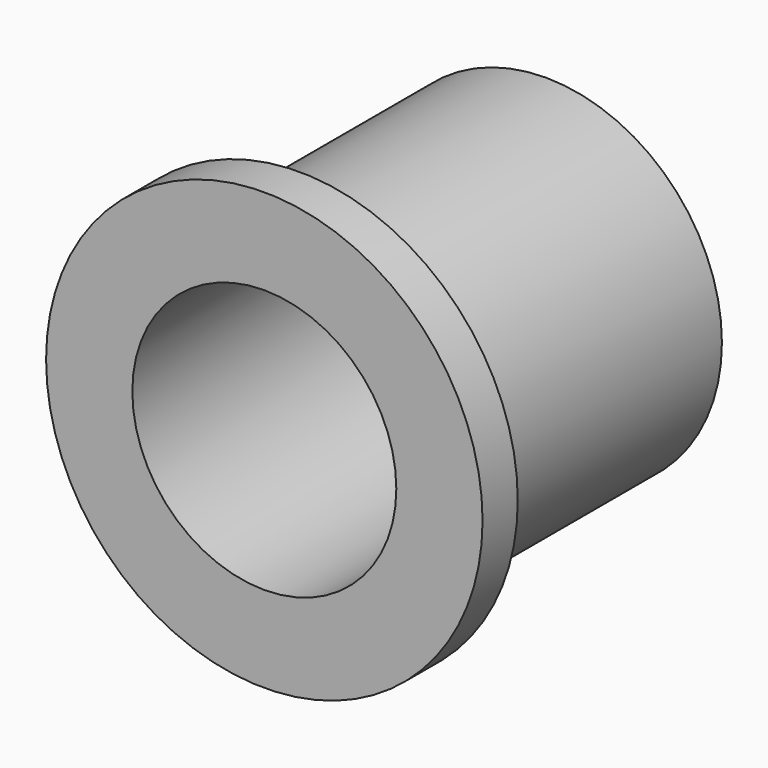
from build123d import *

# Parameters (mm, degrees)
F0_R     = 15.748
F0_R_2   = 12.7
F1_DEPTH = 3.175
F2_DEPTH = 25.4
F3_D     = 19.05


with BuildPart() as f1:
    # F0 (on Front) → F1 (new body)
    with BuildSketch(Plane.XZ):
        Circle(F0_R)
        Circle(F0_R_2, mode=Mode.SUBTRACT)
        Circle(F0_R_2)
    extrude(amount=-F1_DEPTH)

    # F0 (on Front) → F2 (join)
    with BuildSketch(Plane.XZ):
        Circle(F0_R_2)
    extrude(amount=-F2_DEPTH)

    # F3 (through all)
    with Locations(Plane.XZ):
        with Locations((0, 0)):
            Hole(F3_D / 2)


solid = f1.part
